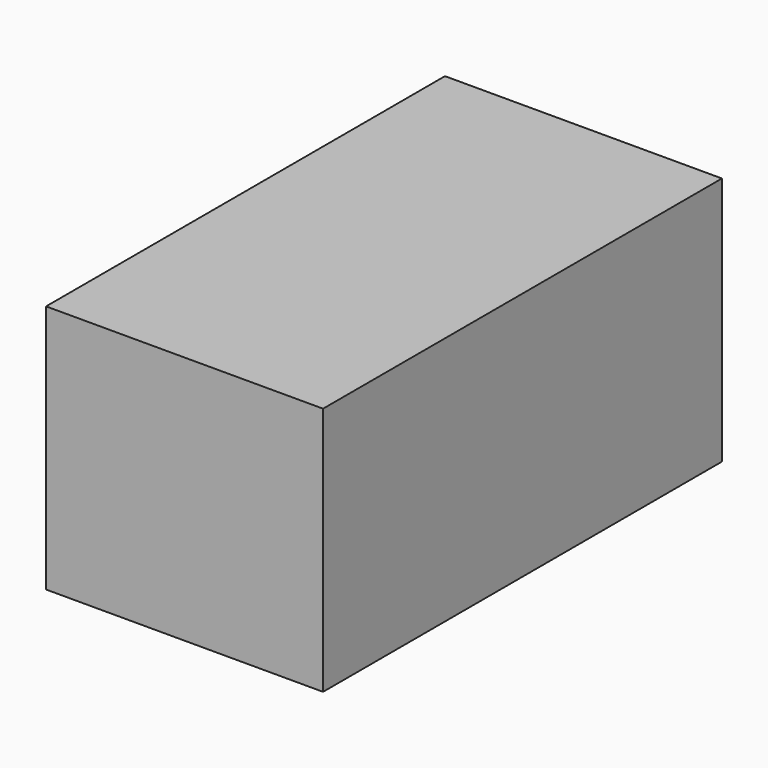
from build123d import *

# Parameters (mm, degrees)
F0_W     = 22.86
F0_H     = 22.86
F0_W_2   = 12.954
F0_H_2   = 12.954
F1_DEPTH = 25.4
F2_DEPTH = 22.86
F3_W     = 12.954
F3_H     = 12.954
F4_DEPTH = 5.08
F5_W     = 12.9547669124
F5_H     = 12.7
F6_DEPTH = 25.4


with BuildPart() as f1:
    # F0 (on Right) → F1 (new body)
    with BuildSketch(Plane.YZ):
        Rectangle(F0_W, F0_H)
        Rectangle(F0_W_2, F0_H_2, mode=Mode.SUBTRACT)
    extrude(amount=F1_DEPTH)

    # F2 (add): a face of the model
    f2_faces = [f1.faces().sort_by_distance(p)[0] for p in [
        (12.7, 11.43, 0),
    ]]
    extrude(f2_faces, amount=F2_DEPTH)

    # F3 (on face) → F4 (join)
    with BuildSketch(Plane.YZ.offset(25.4)):
        Rectangle(F3_W, F3_H)
    extrude(amount=-F4_DEPTH)

    # F5 (on face) → F6 (cut)
    with BuildSketch(Plane(origin=(0, 34.29, 0), x_dir=(-1, 0, 0), z_dir=(0, 1, 0))):
        with Locations((-11.5566165438, 0)):
            Rectangle(F5_W, F5_H)
    extrude(amount=-F6_DEPTH, mode=Mode.SUBTRACT)


solid = f1.part
